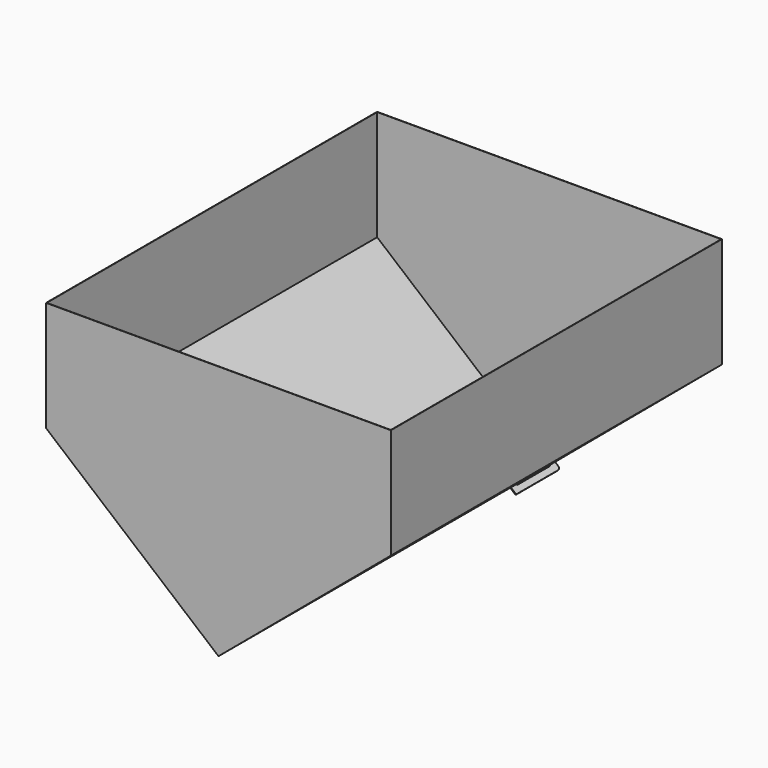
from build123d import *

# Parameters (mm, degrees)
F1_DEPTH      = 3000
F2_T          = -2.5
F4_DEPTH      = 5
F4_DEPTH_BACK = 1


with BuildPart() as f1:
    # F0 (on Front) → F1 (new body)
    with BuildSketch(Plane.XZ):
        Polygon((-1250, 1048.874539), (0, 0), (1250, 1048.874539), (1250, 1848.874539), (0, 1848.874539), (-1250, 1848.874539), align=None)
    extrude(amount=F1_DEPTH)

    # F2
    f2_openings = [f1.faces().sort_by_distance(p)[0] for p in [
        (0, -1500, 1848.874539),
    ]]
    offset(amount=F2_T, openings=f2_openings)

    # F3 (on face) → F4 (join, two sides)
    with BuildSketch(Plane(origin=(0, 0, 0), x_dir=(0.766044, 0, -0.642788), z_dir=(-0.642788, 0, -0.766044))) as f4_sk:
        with BuildLine():
            Line((6, 0), (-135, 0))
            Line((-135, 0), (-135, -45))
            ThreePointArc((-135, -45), (-133.535534, -48.535534), (-130, -50))
            Line((-130, -50), (30, -50))
            ThreePointArc((30, -50), (44.142136, -44.142136), (50, -30))
            Line((50, -30), (50, 346))
            ThreePointArc((50, 346), (48.535534, 349.535534), (45, 351))
            Line((45, 351), (0, 351))
            Line((0, 351), (0, 301))
            Line((0, 301), (6, 301))
            Line((6, 301), (6, 0))
        make_face()
    extrude(amount=F4_DEPTH)
    extrude(f4_sk.sketch, amount=-F4_DEPTH_BACK)


solid = f1.part
